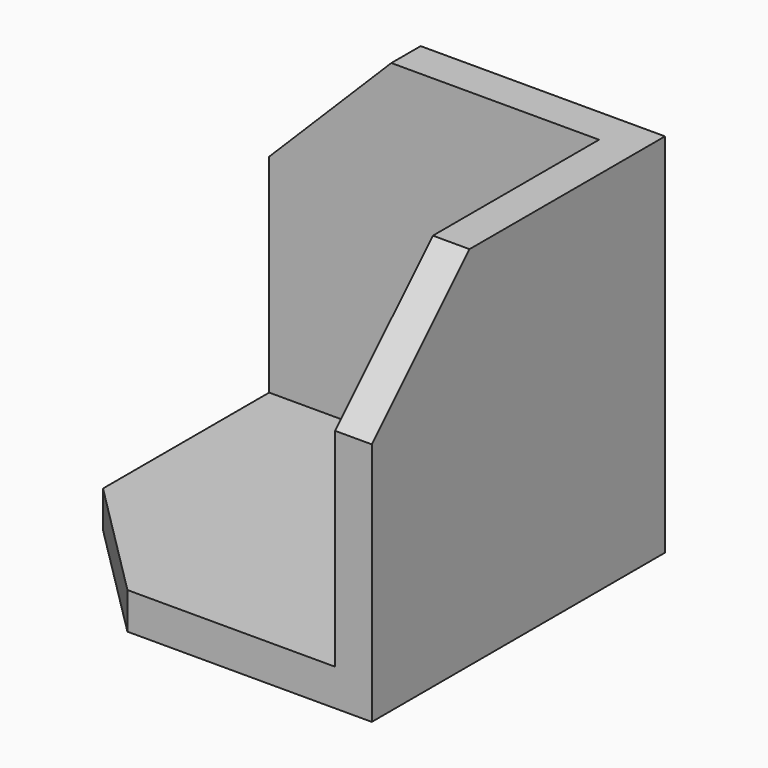
from build123d import *

# Parameters (mm, degrees)
F0_W     = 30
F0_H     = 30
F1_DEPTH = 30
F2_SIZE  = 10
F3_SIZE  = 10
F5_DEPTH = 27


with BuildPart() as f1:
    # F0 (on Top) → F1 (new body)
    with BuildSketch(Plane.XY):
        with Locations((15, 15)):
            Rectangle(F0_W, F0_H)
    extrude(amount=F1_DEPTH)

    # F2
    f2_edges = [f1.edges().sort_by_distance(p)[0] for p in [
        (0, 0, 15),
    ]]
    chamfer(f2_edges, length=F2_SIZE)

    # F3
    f3_edges = [f1.edges().sort_by_distance(p)[0] for p in [
        (20, 0, 30),
        (5, 5, 30),
        (0, 20, 30),
    ]]
    chamfer(f3_edges, length=F3_SIZE)

    # F4 (on face) → F5 (cut)
    with BuildSketch(Plane.XY.offset(30)):
        with BuildLine():
            Line((27, 27), (0, 27))
            ThreePointArc((0, 27), (-6.8211951152, -6.8211951152), (27, 0))
            Line((27, 0), (27, 27))
        make_face()
    extrude(amount=-F5_DEPTH, mode=Mode.SUBTRACT)


solid = f1.part
